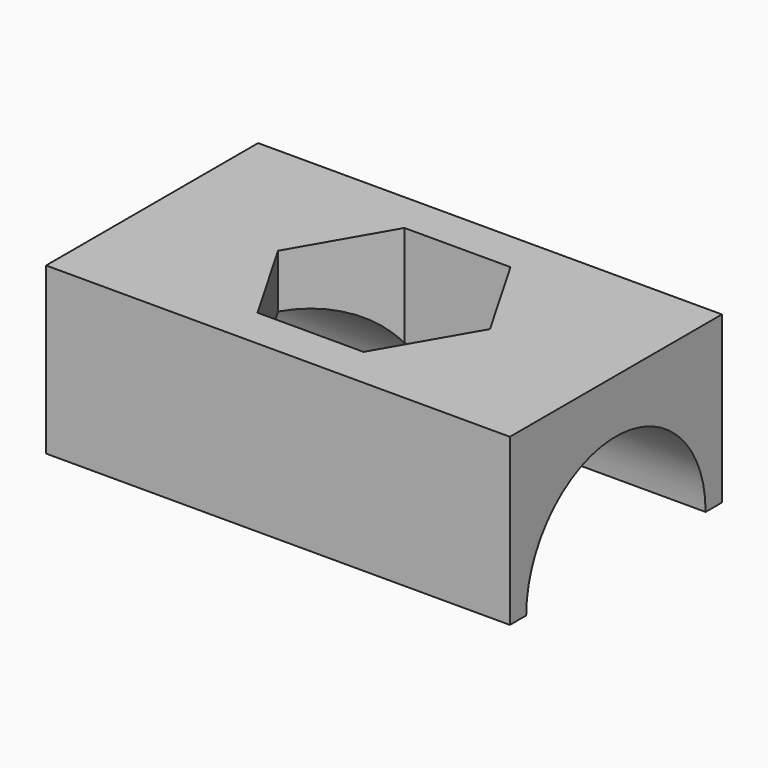
from build123d import *

# Parameters (mm, degrees)
F0_W     = 70
F0_H     = 40
F1_DEPTH = 25
F3_DEPTH = 70.001


with BuildPart() as f1:
    # F0 (on Top) → F1 (new body)
    with BuildSketch(Plane.XY):
        Rectangle(F0_W, F0_H)
        Polygon((-8, -13.856406), (-16, 0), (-8, 13.856406), (8, 13.856406), (16, 0), (8, -13.856406), align=None, mode=Mode.SUBTRACT)
    extrude(amount=F1_DEPTH)

    # F2 (on face) → F3 (cut, through all)
    with BuildSketch(Plane.YZ.offset(35)):
        with BuildLine():
            ThreePointArc((-16.922921, 0), (0, -16.922921), (16.922921, 0))
            Line((16.922921, 0), (-16.922921, 0))
        make_face()
        with BuildLine():
            Line((-16.922921, 0), (16.922921, 0))
            ThreePointArc((16.922921, 0), (0, 16.922921), (-16.922921, 0))
        make_face()
    extrude(amount=-F3_DEPTH, mode=Mode.SUBTRACT)


solid = f1.part
